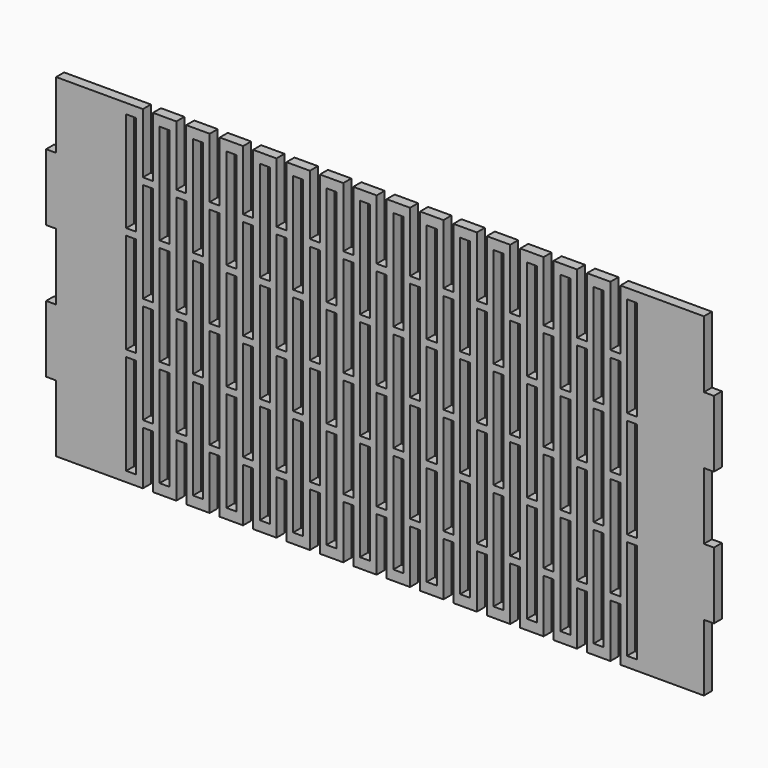
from build123d import *

# Parameters (mm, degrees)
F0_W     = 3
F0_H     = 30
F1_DEPTH = 3


with BuildPart() as f1:
    # F0 (on Front) → F1 (new body)
    with BuildSketch(Plane.XZ):
        Polygon((80, -50), (80, 50), (72, 50), (72, 47), (72, 32), (69, 32), (69, 47), (69, 50), (62, 50), (62, 47), (62, 32), (59, 32), (59, 47), (59, 50), (52, 50), (52, 47), (52, 32), (49, 32), (49, 47), (49, 50), (42, 50), (42, 47), (42, 32), (39, 32), (39, 47), (39, 50), (32, 50), (32, 47), (32, 32), (29, 32), (29, 47), (29, 50), (22, 50), (22, 47), (22, 32), (19, 32), (19, 47), (19, 50), (12, 50), (12, 47), (12, 32), (9, 32), (9, 47), (9, 50), (2, 50), (2, 47), (2, 32), (-1, 32), (-1, 47), (-1, 50), (-8, 50), (-8, 47), (-8, 32), (-11, 32), (-11, 47), (-11, 50), (-18, 50), (-18, 47), (-18, 32), (-21, 32), (-21, 47), (-21, 50), (-28, 50), (-28, 47), (-28, 32), (-31, 32), (-31, 47), (-31, 50), (-38, 50), (-38, 47), (-38, 32), (-41, 32), (-41, 47), (-41, 50), (-48, 50), (-48, 47), (-48, 32), (-51, 32), (-51, 47), (-51, 50), (-58.0253452063, 50), (-58.0253452063, 47), (-58.0253452063, 32), (-61, 32), (-61, 47), (-61, 50), (-68, 50), (-68, 47), (-68, 32), (-71, 32), (-71, 47), (-71, 50), (-80, 50), (-80, -50), (-71, -50), (-71, -47), (-71, -34), (-68, -34), (-68, -47), (-68, -50), (-61, -50), (-61, -47), (-61, -34), (-58, -34), (-58, -47), (-58, -50), (-51, -50), (-51, -47), (-51, -34), (-48, -34), (-48, -47), (-48, -50), (-41, -50), (-41, -47), (-41, -34), (-38, -34), (-38, -47), (-38, -50), (-31, -50), (-31, -47), (-31, -34), (-28, -34), (-28, -47), (-28, -50), (-21, -50), (-21, -47), (-21, -34), (-18, -34), (-18, -47), (-18, -50), (-11, -50), (-11, -47), (-11, -34), (-8, -34), (-8, -47), (-8, -50), (-1, -50), (-1, -47), (-1, -34), (2, -34), (2, -47), (2, -50), (9, -50), (9, -47), (9, -34), (12, -34), (12, -47), (12, -50), (19, -50), (19, -47), (19, -34), (22, -34), (22, -47), (22, -50), (29, -50), (29, -47), (29, -34), (32, -34), (32, -47), (32, -50), (39, -50), (39, -47), (39, -34), (42, -34), (42, -47), (42, -50), (49, -50), (49, -47), (49, -34), (52, -34), (52, -47), (52, -50), (59, -50), (59, -47), (59, -34), (62, -34), (62, -47), (62, -50), (69, -50), (69, -47), (69, -34), (72, -34), (72, -47), (72, -50), align=None)
        with Locations((-74.5, -32)):
            Rectangle(F0_W, F0_H, mode=Mode.SUBTRACT)
        with Locations((-64.5, -32)):
            Rectangle(F0_W, F0_H, mode=Mode.SUBTRACT)
        with Locations((-54.5, -32)):
            Rectangle(F0_W, F0_H, mode=Mode.SUBTRACT)
        with Locations((-44.5, -32)):
            Rectangle(F0_W, F0_H, mode=Mode.SUBTRACT)
        with Locations((-34.5, -32)):
            Rectangle(F0_W, F0_H, mode=Mode.SUBTRACT)
        with Locations((-24.5, -32)):
            Rectangle(F0_W, F0_H, mode=Mode.SUBTRACT)
        with Locations((-14.5, -32)):
            Rectangle(F0_W, F0_H, mode=Mode.SUBTRACT)
        with Locations((-4.5, -32)):
            Rectangle(F0_W, F0_H, mode=Mode.SUBTRACT)
        with Locations((-69.5, -17)):
            Rectangle(F0_W, F0_H, mode=Mode.SUBTRACT)
        with Locations((-59.5, -17)):
            Rectangle(F0_W, F0_H, mode=Mode.SUBTRACT)
        with Locations((-49.5, -17)):
            Rectangle(F0_W, F0_H, mode=Mode.SUBTRACT)
        with Locations((-39.5, -17)):
            Rectangle(F0_W, F0_H, mode=Mode.SUBTRACT)
        with Locations((-29.5, -17)):
            Rectangle(F0_W, F0_H, mode=Mode.SUBTRACT)
        with Locations((-19.5, -17)):
            Rectangle(F0_W, F0_H, mode=Mode.SUBTRACT)
        with Locations((-9.5, -17)):
            Rectangle(F0_W, F0_H, mode=Mode.SUBTRACT)
        with Locations((5.5, -32)):
            Rectangle(F0_W, F0_H, mode=Mode.SUBTRACT)
        with Locations((15.5, -32)):
            Rectangle(F0_W, F0_H, mode=Mode.SUBTRACT)
        with Locations((25.5, -32)):
            Rectangle(F0_W, F0_H, mode=Mode.SUBTRACT)
        with Locations((35.5, -32)):
            Rectangle(F0_W, F0_H, mode=Mode.SUBTRACT)
        with Locations((45.5, -32)):
            Rectangle(F0_W, F0_H, mode=Mode.SUBTRACT)
        with Locations((55.5, -32)):
            Rectangle(F0_W, F0_H, mode=Mode.SUBTRACT)
        with Locations((65.5, -32)):
            Rectangle(F0_W, F0_H, mode=Mode.SUBTRACT)
        with Locations((75.5, -32)):
            Rectangle(F0_W, F0_H, mode=Mode.SUBTRACT)
        with Locations((0.5, -17)):
            Rectangle(F0_W, F0_H, mode=Mode.SUBTRACT)
        with Locations((10.5, -17)):
            Rectangle(F0_W, F0_H, mode=Mode.SUBTRACT)
        with Locations((20.5, -17)):
            Rectangle(F0_W, F0_H, mode=Mode.SUBTRACT)
        with Locations((30.5, -17)):
            Rectangle(F0_W, F0_H, mode=Mode.SUBTRACT)
        with Locations((40.5, -17)):
            Rectangle(F0_W, F0_H, mode=Mode.SUBTRACT)
        with Locations((50.5, -17)):
            Rectangle(F0_W, F0_H, mode=Mode.SUBTRACT)
        with Locations((60.5, -17)):
            Rectangle(F0_W, F0_H, mode=Mode.SUBTRACT)
        with Locations((70.5, -17)):
            Rectangle(F0_W, F0_H, mode=Mode.SUBTRACT)
        with Locations((-74.5, 0)):
            Rectangle(F0_W, F0_H, mode=Mode.SUBTRACT)
        with Locations((-64.5, 0)):
            Rectangle(F0_W, F0_H, mode=Mode.SUBTRACT)
        with Locations((-54.5, 0)):
            Rectangle(F0_W, F0_H, mode=Mode.SUBTRACT)
        with Locations((-69.5, 15)):
            Rectangle(F0_W, F0_H, mode=Mode.SUBTRACT)
        with Locations((-59.5, 15)):
            Rectangle(F0_W, F0_H, mode=Mode.SUBTRACT)
        with Locations((-44.5, 0)):
            Rectangle(F0_W, F0_H, mode=Mode.SUBTRACT)
        with Locations((-34.5, 0)):
            Rectangle(F0_W, F0_H, mode=Mode.SUBTRACT)
        with Locations((-24.5, 0)):
            Rectangle(F0_W, F0_H, mode=Mode.SUBTRACT)
        with Locations((-14.5, 0)):
            Rectangle(F0_W, F0_H, mode=Mode.SUBTRACT)
        with Locations((-4.5, 0)):
            Rectangle(F0_W, F0_H, mode=Mode.SUBTRACT)
        with Locations((-49.5, 15)):
            Rectangle(F0_W, F0_H, mode=Mode.SUBTRACT)
        with Locations((-39.5, 15)):
            Rectangle(F0_W, F0_H, mode=Mode.SUBTRACT)
        with Locations((-29.5, 15)):
            Rectangle(F0_W, F0_H, mode=Mode.SUBTRACT)
        with Locations((-19.5, 15)):
            Rectangle(F0_W, F0_H, mode=Mode.SUBTRACT)
        with Locations((-9.5, 15)):
            Rectangle(F0_W, F0_H, mode=Mode.SUBTRACT)
        with Locations((-74.5, 32)):
            Rectangle(F0_W, F0_H, mode=Mode.SUBTRACT)
        with Locations((-64.5, 32)):
            Rectangle(F0_W, F0_H, mode=Mode.SUBTRACT)
        with Locations((-54.5, 32)):
            Rectangle(F0_W, F0_H, mode=Mode.SUBTRACT)
        with Locations((-44.5, 32)):
            Rectangle(F0_W, F0_H, mode=Mode.SUBTRACT)
        with Locations((-34.5, 32)):
            Rectangle(F0_W, F0_H, mode=Mode.SUBTRACT)
        with Locations((-24.5, 32)):
            Rectangle(F0_W, F0_H, mode=Mode.SUBTRACT)
        with Locations((-14.5, 32)):
            Rectangle(F0_W, F0_H, mode=Mode.SUBTRACT)
        with Locations((-4.5, 32)):
            Rectangle(F0_W, F0_H, mode=Mode.SUBTRACT)
        with Locations((5.5, 0)):
            Rectangle(F0_W, F0_H, mode=Mode.SUBTRACT)
        with Locations((15.5, 0)):
            Rectangle(F0_W, F0_H, mode=Mode.SUBTRACT)
        with Locations((25.5, 0)):
            Rectangle(F0_W, F0_H, mode=Mode.SUBTRACT)
        with Locations((35.5, 0)):
            Rectangle(F0_W, F0_H, mode=Mode.SUBTRACT)
        with Locations((45.5, 0)):
            Rectangle(F0_W, F0_H, mode=Mode.SUBTRACT)
        with Locations((0.5, 15)):
            Rectangle(F0_W, F0_H, mode=Mode.SUBTRACT)
        with Locations((10.5, 15)):
            Rectangle(F0_W, F0_H, mode=Mode.SUBTRACT)
        with Locations((20.5, 15)):
            Rectangle(F0_W, F0_H, mode=Mode.SUBTRACT)
        with Locations((30.5, 15)):
            Rectangle(F0_W, F0_H, mode=Mode.SUBTRACT)
        with Locations((40.5, 15)):
            Rectangle(F0_W, F0_H, mode=Mode.SUBTRACT)
        with Locations((55.5, 0)):
            Rectangle(F0_W, F0_H, mode=Mode.SUBTRACT)
        with Locations((65.5, 0)):
            Rectangle(F0_W, F0_H, mode=Mode.SUBTRACT)
        with Locations((75.5, 0)):
            Rectangle(F0_W, F0_H, mode=Mode.SUBTRACT)
        with Locations((50.5, 15)):
            Rectangle(F0_W, F0_H, mode=Mode.SUBTRACT)
        with Locations((60.5, 15)):
            Rectangle(F0_W, F0_H, mode=Mode.SUBTRACT)
        with Locations((70.5, 15)):
            Rectangle(F0_W, F0_H, mode=Mode.SUBTRACT)
        with Locations((5.5, 32)):
            Rectangle(F0_W, F0_H, mode=Mode.SUBTRACT)
        with Locations((15.5, 32)):
            Rectangle(F0_W, F0_H, mode=Mode.SUBTRACT)
        with Locations((25.5, 32)):
            Rectangle(F0_W, F0_H, mode=Mode.SUBTRACT)
        with Locations((35.5, 32)):
            Rectangle(F0_W, F0_H, mode=Mode.SUBTRACT)
        with Locations((45.5, 32)):
            Rectangle(F0_W, F0_H, mode=Mode.SUBTRACT)
        with Locations((55.5, 32)):
            Rectangle(F0_W, F0_H, mode=Mode.SUBTRACT)
        with Locations((65.5, 32)):
            Rectangle(F0_W, F0_H, mode=Mode.SUBTRACT)
        with Locations((75.5, 32)):
            Rectangle(F0_W, F0_H, mode=Mode.SUBTRACT)
        Polygon((-80, -50), (-80, 50), (-97, 50), (-97, 30), (-100, 30), (-100, 10), (-97, 10), (-97, -10), (-100, -10), (-100, -30), (-97, -30), (-97, -50), align=None)
        Polygon((97, 50), (80, 50), (80, -50), (97, -50), (97, -30), (100, -30), (100, -10), (97, -10), (97, 10), (100, 10), (100, 30), (97, 30), align=None)
    extrude(amount=F1_DEPTH)


solid = f1.part
